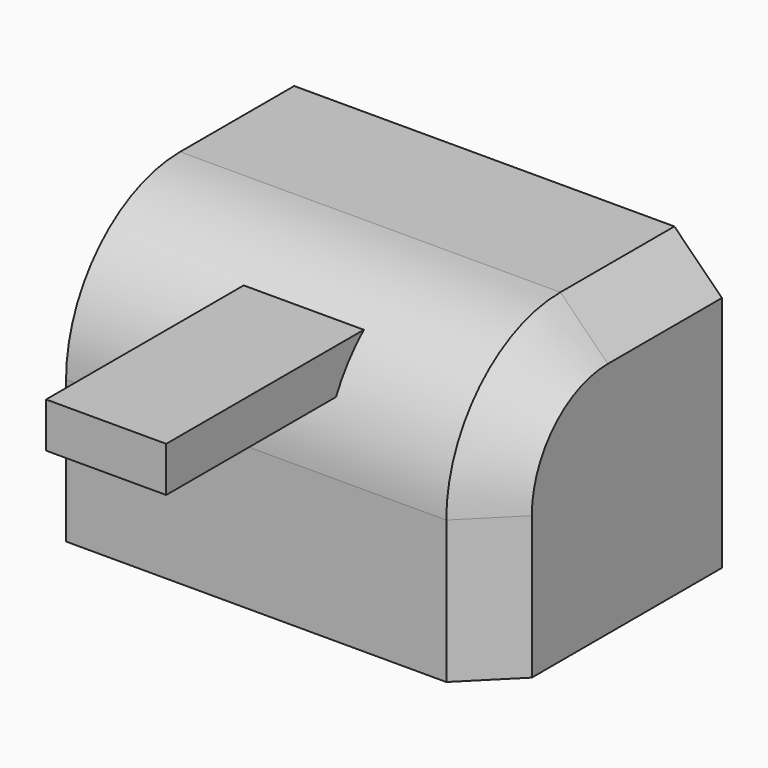
from build123d import *

# Parameters (mm, degrees)
F0_W     = 114.3
F0_H     = 76.2
F1_DEPTH = 38.1
F2_R     = 38.1
F3_SIZE  = 12.7
F4_W     = 32.1010919288
F4_H     = 12.0379095897
F5_DEPTH = 90.932


with BuildPart() as f1:
    # F0 (on Front) → F1 (new body, symmetric)
    with BuildSketch(Plane.XZ):
        with Locations((-0.4010554403, -6.0710595265)):
            Rectangle(F0_W, F0_H)
    extrude(amount=F1_DEPTH, both=True)

    # F2
    f2_edges = [f1.edges().sort_by_distance(p)[0] for p in [
        (-0.401055, -38.1, 32.02894),
    ]]
    fillet(f2_edges, radius=F2_R)

    # F3
    f3_edges = [f1.edges().sort_by_distance(p)[0] for p in [
        (56.748945, 19.05, 32.02894),
    ]]
    chamfer(f3_edges, length=F3_SIZE)

    # F4 (on Front) → F5 (join)
    with BuildSketch(Plane.XZ):
        with Locations((-4.5737079345, 16.7265743949)):
            Rectangle(F4_W, F4_H)
    extrude(amount=F5_DEPTH)


solid = f1.part
